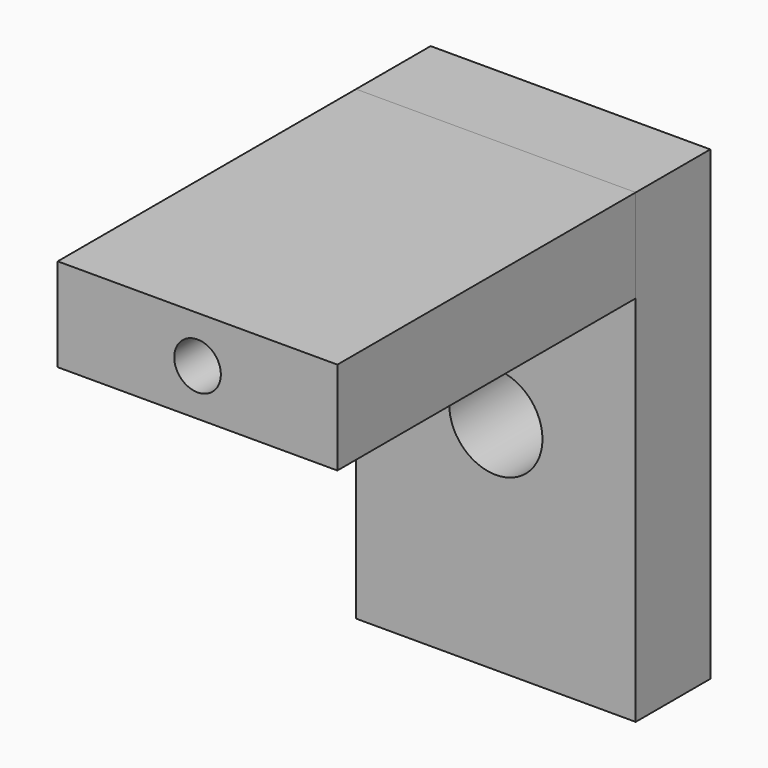
from build123d import *

# Parameters (mm, degrees)
F0_W     = 76.2
F0_H     = 25.4
F1_DEPTH = 127
F2_R     = 12.7
F3_DEPTH = 25.401
F4_W     = 76.2
F4_H     = 25.4
F5_DEPTH = 101.6
F6_R     = 6.35
F7_DEPTH = 127.001
F8_R     = 6.35
F9_DEPTH = 25.401


with BuildPart() as f1:
    # F0 (on Top) → F1 (new body)
    with BuildSketch(Plane.XY):
        Rectangle(F0_W, F0_H)
    extrude(amount=F1_DEPTH)

    # F2 (on face) → F3 (cut, through all)
    with BuildSketch(Plane.XZ.offset(12.7)):
        with Locations((0, 59.5492098594)):
            Circle(F2_R)
    extrude(amount=-F3_DEPTH, mode=Mode.SUBTRACT)


with BuildPart() as f5:
    # F4 (on face) → F5 (new body)
    with BuildSketch(Plane.XZ.offset(12.7)):
        with Locations((0, 114.3)):
            Rectangle(F4_W, F4_H)
    extrude(amount=F5_DEPTH)


with BuildPart() as f7_tool:
    # F6 (on face) → F7 (new body, through all)
    with BuildSketch(Plane.XZ.offset(114.3)):
        with Locations((0, 114.3)):
            Circle(F6_R)
    extrude(amount=-F7_DEPTH)


with BuildPart() as f1_1:
    add(f1.part)

    # F7: cut by f7_tool
    add(f7_tool.part, mode=Mode.SUBTRACT)

    # F8 (on face) → F9 (cut, through all)
    with BuildSketch(Plane.XZ.offset(12.7)):
        with Locations((0, 114.3)):
            Circle(F8_R)
    extrude(amount=-F9_DEPTH, mode=Mode.SUBTRACT)


with BuildPart() as f5_1:
    add(f5.part)

    # F7: cut by f7_tool
    add(f7_tool.part, mode=Mode.SUBTRACT)


solid = Compound([f1_1.part, f5_1.part])
